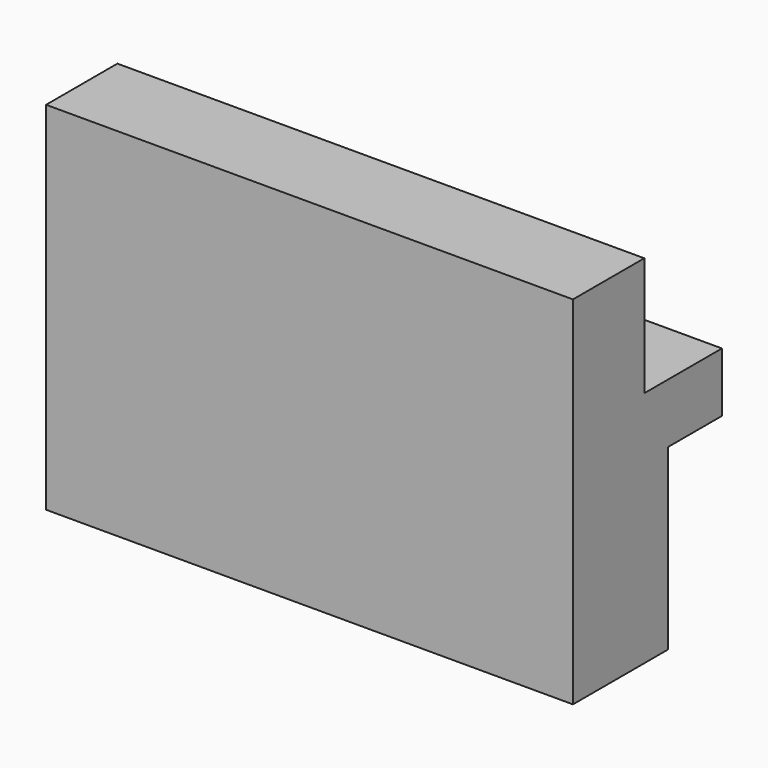
from build123d import *

# Parameters (mm, degrees)
F0_W     = 225
F0_H     = 300
F0_W_2   = 300
F0_H_2   = 450
F1_DEPTH = 665


with BuildPart() as f1:
    # F0 (on Right) → F1 (new body, symmetric)
    with BuildSketch(Plane.YZ):
        with Locations((112.5, 300)):
            Rectangle(F0_W, F0_H)
        Polygon((0, 150), (0, 0), (300, 0), (470, 0), (470, 150), (225, 150), align=None)
        with Locations((150, -225)):
            Rectangle(F0_W_2, F0_H_2)
    extrude(amount=F1_DEPTH, both=True)


solid = f1.part
